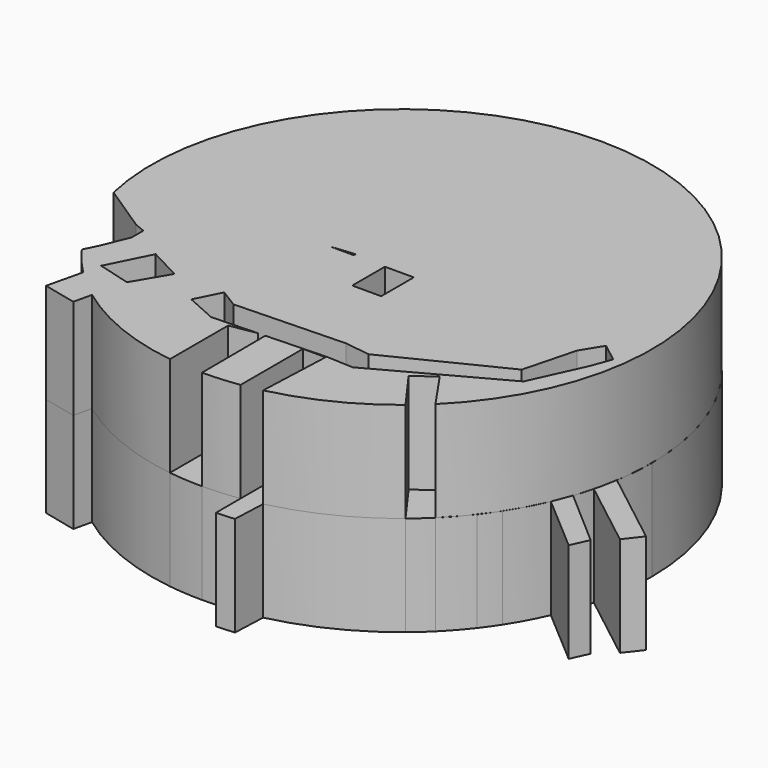
from build123d import *

# Parameters (mm, degrees)
F1_DEPTH  = 25.4
F0_W      = 7.3390468024
F0_H      = 10.3610064834
F2_DEPTH  = 25.4
F2_FACE_W = 7.3390468024
F2_FACE_H = 10.3610064834
F3_DEPTH  = 25.4


with BuildPart() as f1:
    # F0 (on Top) → F1 (new body)
    with BuildSketch(Plane.XY):
        with BuildLine():
            Line((-49.7708707051, -22.0490339231), (-61.9298927866, -14.0334735346))
            ThreePointArc((-61.9298927866, -14.0334735346), (-59.5758630727, -21.9764997017), (-56.2077897371, -29.5454628137))
            ThreePointArc((-56.2077897371, -29.5454628137), (-54.0065287389, -33.3997732563), (-51.5413960541, -37.0908950121))
            Line((-51.5413960541, -37.0908950121), (-49.9342978001, -33.8171757758))
            Line((-49.9342978001, -33.8171757758), (-47.0562428236, -26.9098374993))
            Line((-47.0562428236, -26.9098374993), (-52.2367469966, -23.1683626771))
            Line((-52.2367469966, -23.1683626771), (-51.2758737448, -21.4284725605))
            Line((-51.2758737448, -21.4284725605), (-49.7708707051, -22.0490339231))
        make_face()
    extrude(amount=F1_DEPTH)


with BuildPart() as f1b:
    # F0 (on Top) → F1, piece 2 (new body)
    with BuildSketch(Plane.XY):
        with Locations((3.6695234012, -10.5049097911)):
            Rectangle(F0_W, F0_H)
    extrude(amount=F1_DEPTH)


with BuildPart() as f1c:
    # F0 (on Top) → F1, piece 3 (new body)
    with BuildSketch(Plane.XY):
        Polygon((-31.0068018321, -34.4188220673), (-36.9332990208, -30.5119127952), (-38.8563714, -29.5000895858), (-44.1781841218, -40.1489026845), (-35.7720319718, -42.4837099351), align=None)
    extrude(amount=F1_DEPTH)


with BuildPart() as f1d:
    # F0 (on Top) → F1, piece 4 (new body)
    with BuildSketch(Plane.XY):
        Polygon((14.5341921598, -35.8318164945), (-13.3829666302, -36.6952344775), (-13.3829666302, -43.7464751303), (-1.8367504253, -43.3382747308), (0, -43.0269613862), (0.0013102635, -43.273292654), (15.1098035276, -42.7391529083), align=None)
        Polygon((-13.3829666302, -36.6952344775), (-17.9878603667, -33.8171757758), (-21.2062429383, -40.2539409189), (-13.3829666302, -43.7464751303), align=None)
        Polygon((48.7830750644, -22.8805579245), (20.9440190319, -36.6952344775), (22.0171920954, -43.0269613862), (43.0135097494, -31.6289399265), (42.0995865443, -30.3635075688), (45.3445651738, -30.3635075688), (52.2367432714, -26.6220327467), align=None)
        Polygon((20.9440190319, -36.6952344775), (14.5341921598, -35.8318164945), (15.1098035276, -42.7391529083), (22.0171920954, -43.0269613862), align=None)
        Polygon((52.2367432714, -9.6414927393), (58.2806691527, -13.3829684928), (60.2128914278, -8.1383658129), (55.4570831755, -4.4394021804), align=None)
        Polygon((56.4015443779, -17.4991429998), (58.2806691527, -13.3829684928), (52.2367432714, -9.6414927393), (48.7830750644, -22.8805579245), (52.2367432714, -26.6220327467), align=None)
    extrude(amount=F1_DEPTH)


with BuildPart() as f1e:
    # F0 (on Top) → F1, piece 5 (new body)
    with BuildSketch(Plane.XY):
        with BuildLine():
            Line((0.0013102635, -43.273292654), (-1.8367504253, -43.3382747308))
            Line((-1.8367504253, -43.3382747308), (-8.4902700037, -44.4659888744))
            Line((-8.4902700037, -44.4659888744), (-8.4902700037, -62.9298443925))
            ThreePointArc((-8.4902700037, -62.9298443925), (-4.2003681286, -63.360925716), (0.1088978775, -63.499906624))
            Line((0.1088978775, -63.499906624), (0.0013102635, -43.273292654))
        make_face()
    extrude(amount=F1_DEPTH)


with BuildPart() as f1f:
    # F0 (on Top) → F1, piece 6 (new body)
    with BuildSketch(Plane.XY):
        with BuildLine():
            Line((14.3128531195, -61.8659214397), (15.0978114818, -43.0269613862))
            Line((15.0978114818, -43.0269613862), (9.3536870554, -43.0269613862))
            Line((9.3536870554, -43.0269613862), (9.3536870554, -62.8073127786))
            ThreePointArc((9.3536870554, -62.8073127786), (11.8426278915, -62.3859131906), (14.3128531195, -61.8659214397))
        make_face()
        with BuildLine():
            Line((13.958577998, -70.3685060143), (14.3128531195, -61.8659214397))
            ThreePointArc((14.3128531195, -61.8659214397), (11.8426278915, -62.3859131906), (9.3536870554, -62.8073127786))
            Line((9.3536870554, -62.8073127786), (9.3536870554, -70.6563144922))
            Line((9.3536870554, -70.6563144922), (13.958577998, -70.3685060143))
        make_face()
    extrude(amount=F1_DEPTH)


with BuildPart() as f1g:
    # F0 (on Top) → F1, piece 7 (new body)
    with BuildSketch(Plane.XY):
        with BuildLine():
            ThreePointArc((40.2562877221, -49.1088718953), (42.5102272204, -47.1712898029), (44.6710288363, -45.130357662))
            Line((44.6710288363, -45.130357662), (37.9661338907, -35.377633886))
            Line((37.9661338907, -35.377633886), (32.953761518, -38.9976799488))
            Line((32.953761518, -38.9976799488), (40.2562877221, -49.1088718953))
        make_face()
    extrude(amount=F1_DEPTH)


with BuildPart() as f1h:
    # F0 (on Top) → F1, piece 8 (new body)
    with BuildSketch(Plane.XY):
        with BuildLine():
            Line((74.6989872856, -33.4040969341), (60.0434377636, -20.6648392573))
            ThreePointArc((60.0434377636, -20.6648392573), (59.1673811143, -23.0536550697), (58.196329197, -25.405457445))
            Line((58.196329197, -25.405457445), (72.6709514856, -37.8464572132))
            Line((72.6709514856, -37.8464572132), (74.6989872856, -33.4040969341))
        make_face()
    extrude(amount=F1_DEPTH)


with BuildPart() as f1i:
    # F0 (on Top) → F1, piece 9 (new body)
    with BuildSketch(Plane.XY):
        with BuildLine():
            Line((82.2725929596, -25.295914445), (62.6964485641, -10.0700217202))
            ThreePointArc((62.6964485641, -10.0700217202), (62.1579082594, -12.9863174461), (61.4837943245, -15.8742885027))
            Line((61.4837943245, -15.8742885027), (79.0026783943, -29.5000895858))
            Line((79.0026783943, -29.5000895858), (82.2725929596, -25.295914445))
        make_face()
    extrude(amount=F1_DEPTH)


with BuildPart() as f2:
    # F0 (on Top) → F2 (new body)
    with BuildSketch(Plane.XY):
        with BuildLine():
            ThreePointArc((62.6964485641, -10.0700217202), (63.2987933685, -5.0510155502), (63.5, 0))
            ThreePointArc((63.5, 0), (-4.5314373986, 63.3381091848), (-62.853262208, -9.0397693453))
            Line((-62.853262208, -9.0397693453), (-17.9878603667, -33.8171757758))
            Line((-17.9878603667, -33.8171757758), (-13.3829666302, -36.6952344775))
            Line((-13.3829666302, -36.6952344775), (14.5341921598, -35.8318164945))
            Line((14.5341921598, -35.8318164945), (20.9440190319, -36.6952344775))
            Line((20.9440190319, -36.6952344775), (48.7830750644, -22.8805579245))
            Line((48.7830750644, -22.8805579245), (52.2367432714, -9.6414927393))
            Line((52.2367432714, -9.6414927393), (55.4570831755, -4.4394021804))
            Line((55.4570831755, -4.4394021804), (60.2128914278, -8.1383658129))
            Line((60.2128914278, -8.1383658129), (60.3152320873, -8.2179641394))
            Line((60.3152320873, -8.2179641394), (62.6964485641, -10.0700217202))
        make_face()
        Polygon((-7.9146586359, -4.7487951815), (-7.9146586359, -5.3244065493), (-13.6707741767, -5.3244065493), align=None, mode=Mode.SUBTRACT)
        with Locations((3.6695234012, -10.5049097911)):
            Rectangle(F0_W, F0_H, mode=Mode.SUBTRACT)
        with BuildLine():
            Line((-17.9878603667, -33.8171757758), (-62.853262208, -9.0397693453))
            ThreePointArc((-62.853262208, -9.0397693453), (-62.441518343, -11.5458558375), (-61.9298927866, -14.0334735346))
            Line((-61.9298927866, -14.0334735346), (-49.7708707051, -22.0490339231))
            Line((-49.7708707051, -22.0490339231), (-47.0562428236, -23.1683626771))
            Line((-47.0562428236, -23.1683626771), (-47.0562428236, -23.8385909756))
            Line((-47.0562428236, -23.8385909756), (-36.9332990208, -30.5119127952))
            Line((-36.9332990208, -30.5119127952), (-30.6513123214, -33.8171757758))
            Line((-30.6513123214, -33.8171757758), (-31.0068018321, -34.4188220673))
            Line((-31.0068018321, -34.4188220673), (-21.4415285736, -40.7245121896))
            Line((-21.4415285736, -40.7245121896), (-21.2062429383, -40.2539409189))
            Line((-21.2062429383, -40.2539409189), (-17.9878603667, -33.8171757758))
        make_face()
        with BuildLine():
            ThreePointArc((-37.7750572229, -51.0420909819), (-41.6210778743, -47.9576466956), (-45.2162142199, -44.5841224162))
            Line((-45.2162142199, -44.5841224162), (-47.3440475762, -53.6757744849))
            Line((-47.3440475762, -53.6757744849), (-38.8563714, -55.6622517883))
            Line((-38.8563714, -55.6622517883), (-37.7750572229, -51.0420909819))
        make_face()
        with BuildLine():
            Line((-44.1781841218, -40.1489026845), (-45.2162142199, -44.5841224162))
            ThreePointArc((-45.2162142199, -44.5841224162), (-41.6210778743, -47.9576466956), (-37.7750572229, -51.0420909819))
            Line((-37.7750572229, -51.0420909819), (-35.7720319718, -42.4837099351))
            Line((-35.7720319718, -42.4837099351), (-44.1781841218, -40.1489026845))
        make_face()
        with BuildLine():
            ThreePointArc((50.2299959784, -38.8483912667), (51.7917900501, -36.7404475124), (53.2651809713, -34.5697916699))
            Line((53.2651809713, -34.5697916699), (48.7830750644, -30.3635075688))
            Line((48.7830750644, -30.3635075688), (44.1781841218, -33.2415662706))
            Line((44.1781841218, -33.2415662706), (50.2299959784, -38.8483912667))
        make_face()
        with BuildLine():
            ThreePointArc((58.196329197, -25.405457445), (59.1673811143, -23.0536550697), (60.0434377636, -20.6648392573))
            Line((60.0434377636, -20.6648392573), (56.4015443779, -17.4991429998))
            Line((56.4015443779, -17.4991429998), (52.2367432714, -26.6220327467))
            Line((52.2367432714, -26.6220327467), (45.3445651738, -30.3635075688))
            Line((45.3445651738, -30.3635075688), (48.7830750644, -30.3635075688))
            Line((48.7830750644, -30.3635075688), (53.2651809713, -34.5697916699))
            ThreePointArc((53.2651809713, -34.5697916699), (55.9188100526, -30.0888132418), (58.196329197, -25.405457445))
        make_face()
        with BuildLine():
            ThreePointArc((61.4837943245, -15.8742885027), (62.1579082594, -12.9863174461), (62.6964485641, -10.0700217202))
            Line((62.6964485641, -10.0700217202), (60.3152320873, -8.2179641394))
            Line((60.3152320873, -8.2179641394), (60.2128914278, -8.1383658129))
            Line((60.2128914278, -8.1383658129), (58.2806691527, -13.3829684928))
            Line((58.2806691527, -13.3829684928), (61.4837943245, -15.8742885027))
        make_face()
        with BuildLine():
            ThreePointArc((61.4837943245, -15.8742885027), (62.1579082594, -12.9863174461), (62.6964485641, -10.0700217202))
            Line((62.6964485641, -10.0700217202), (60.3152320873, -8.2179641394))
            Line((60.3152320873, -8.2179641394), (60.2128914278, -8.1383658129))
            Line((60.2128914278, -8.1383658129), (58.2806691527, -13.3829684928))
            Line((58.2806691527, -13.3829684928), (61.4837943245, -15.8742885027))
        make_face()
        with BuildLine():
            ThreePointArc((60.0434377636, -20.6648392573), (60.8108080762, -18.2837529277), (61.4837943245, -15.8742885027))
            Line((61.4837943245, -15.8742885027), (58.2806691527, -13.3829684928))
            Line((58.2806691527, -13.3829684928), (56.4015443779, -17.4991429998))
            Line((56.4015443779, -17.4991429998), (60.0434377636, -20.6648392573))
        make_face()
        Polygon((44.1781841218, -33.2415662706), (48.7830750644, -30.3635075688), (45.3445651738, -30.3635075688), (43.0135097494, -31.6289399265), align=None)
        with BuildLine():
            Line((-49.9342978001, -33.8171757758), (-51.5413960541, -37.0908950121))
            ThreePointArc((-51.5413960541, -37.0908950121), (-48.5236633068, -40.9597863677), (-45.2162142199, -44.5841224162))
            Line((-45.2162142199, -44.5841224162), (-44.1781841218, -40.1489026845))
            Line((-44.1781841218, -40.1489026845), (-38.8563714, -29.5000895858))
            Line((-38.8563714, -29.5000895858), (-36.9332990208, -30.5119127952))
            Line((-36.9332990208, -30.5119127952), (-47.0562428236, -23.8385909756))
            Line((-47.0562428236, -23.8385909756), (-47.0562428236, -26.9098374993))
            Line((-47.0562428236, -26.9098374993), (-49.9342978001, -33.8171757758))
        make_face()
        with BuildLine():
            Line((-13.3829666302, -43.7464751303), (-21.2062429383, -40.2539409189))
            Line((-21.2062429383, -40.2539409189), (-21.4415285736, -40.7245121896))
            Line((-21.4415285736, -40.7245121896), (-31.0068018321, -34.4188220673))
            Line((-31.0068018321, -34.4188220673), (-35.7720319718, -42.4837099351))
            Line((-35.7720319718, -42.4837099351), (-37.7750572229, -51.0420909819))
            ThreePointArc((-37.7750572229, -51.0420909819), (-23.8840908584, -58.8370648815), (-8.4902700037, -62.9298443925))
            Line((-8.4902700037, -62.9298443925), (-8.4902700037, -44.4659888744))
            Line((-8.4902700037, -44.4659888744), (-1.8367504253, -43.3382747308))
            Line((-1.8367504253, -43.3382747308), (-13.3829666302, -43.7464751303))
        make_face()
        with BuildLine():
            Line((15.0978114818, -43.0269613862), (15.1098035276, -42.7391529083))
            Line((15.1098035276, -42.7391529083), (0.0013102635, -43.273292654))
            Line((0.0013102635, -43.273292654), (0.1088978775, -63.499906624))
            ThreePointArc((0.1088978775, -63.499906624), (4.7439487731, -63.3225469327), (9.3536870554, -62.8073127786))
            Line((9.3536870554, -62.8073127786), (9.3536870554, -43.0269613862))
            Line((9.3536870554, -43.0269613862), (15.0978114818, -43.0269613862))
        make_face()
        with BuildLine():
            Line((22.0171920954, -43.0269613862), (15.1098035276, -42.7391529083))
            Line((15.1098035276, -42.7391529083), (15.0978114818, -43.0269613862))
            Line((15.0978114818, -43.0269613862), (14.3128531195, -61.8659214397))
            ThreePointArc((14.3128531195, -61.8659214397), (28.020231286, -56.9834768918), (40.2562877221, -49.1088718953))
            Line((40.2562877221, -49.1088718953), (32.953761518, -38.9976799488))
            Line((32.953761518, -38.9976799488), (37.9661338907, -35.377633886))
            Line((37.9661338907, -35.377633886), (44.6710288363, -45.130357662))
            ThreePointArc((44.6710288363, -45.130357662), (47.5543573521, -42.0812677664), (50.2299959784, -38.8483912667))
            Line((50.2299959784, -38.8483912667), (44.1781841218, -33.2415662706))
            Line((44.1781841218, -33.2415662706), (43.0135097494, -31.6289399265))
            Line((43.0135097494, -31.6289399265), (22.0171920954, -43.0269613862))
        make_face()
    extrude(amount=F2_DEPTH)


with BuildPart() as f3:
    # F0 (on Top) + F2_face (on face) → F3 (new body)
    with BuildSketch(Plane.XY):
        Polygon((-47.0562428236, -26.9098374993), (-51.2758737448, -21.4284725605), (-52.2367469966, -23.1683626771), align=None)
    with BuildSketch(Plane(origin=(-0.6499748521, 3.6278540667, 25.4), x_dir=(1, 0, 0), z_dir=(0, 0, 1))):
        with BuildLine():
            Line((-61.2799179345, -17.6613276012), (-49.1208958531, -25.6768879898))
            Line((-49.1208958531, -25.6768879898), (-46.4062679715, -26.7962167438))
            Line((-46.4062679715, -26.7962167438), (-46.4062679715, -30.5376915659))
            Line((-46.4062679715, -30.5376915659), (-49.284322948, -37.4450298424))
            Line((-49.284322948, -37.4450298424), (-50.891421202, -40.7187490787))
            ThreePointArc((-50.891421202, -40.7187490787), (-47.8736884547, -44.5876404343), (-44.5662393678, -48.2119764829))
            Line((-44.5662393678, -48.2119764829), (-46.6940727241, -57.3036285515))
            Line((-46.6940727241, -57.3036285515), (-38.206396548, -59.290105855))
            Line((-38.206396548, -59.290105855), (-37.1250823708, -54.6699450486))
            ThreePointArc((-37.1250823708, -54.6699450486), (-23.2341160063, -62.4649189481), (-7.8402951516, -66.5576984592))
            Line((-7.8402951516, -66.5576984592), (-7.8402951516, -48.0938429411))
            Line((-7.8402951516, -48.0938429411), (-1.1867755732, -46.9661287974))
            Line((-1.1867755732, -46.9661287974), (-12.7329917781, -47.374329197))
            Line((-12.7329917781, -47.374329197), (-20.5562680862, -43.8817949856))
            Line((-20.5562680862, -43.8817949856), (-17.3378855146, -37.4450298424))
            Line((-17.3378855146, -37.4450298424), (-12.7329917781, -40.3230885442))
            Line((-12.7329917781, -40.3230885442), (15.1841670118, -39.4596705611))
            Line((15.1841670118, -39.4596705611), (21.593993884, -40.3230885442))
            Line((21.593993884, -40.3230885442), (49.4330499165, -26.5084119912))
            Line((49.4330499165, -26.5084119912), (52.8867181234, -13.269346806))
            Line((52.8867181234, -13.269346806), (56.1070580276, -8.0672562471))
            Line((56.1070580276, -8.0672562471), (60.8628662798, -11.7662198796))
            Line((60.8628662798, -11.7662198796), (58.9306440048, -17.0108225595))
            Line((58.9306440048, -17.0108225595), (52.8867181234, -30.2498868133))
            Line((52.8867181234, -30.2498868133), (22.6671669475, -46.6548154529))
            Line((22.6671669475, -46.6548154529), (15.7597783797, -46.367006975))
            Line((15.7597783797, -46.367006975), (0.6512851155, -46.9011467207))
            Line((0.6512851155, -46.9011467207), (0.7588727296, -67.1277606906))
            ThreePointArc((0.7588727296, -67.1277606906), (5.3939236252, -66.9504009993), (10.0036619075, -66.4351668453))
            Line((10.0036619075, -66.4351668453), (10.0036619075, -46.6548154529))
            Line((10.0036619075, -46.6548154529), (15.7477863339, -46.6548154529))
            Line((15.7477863339, -46.6548154529), (14.9628279716, -65.4937755063))
            ThreePointArc((14.9628279716, -65.4937755063), (28.670206138, -60.6113309585), (40.9062625742, -52.736725962))
            Line((40.9062625742, -52.736725962), (33.6037363701, -42.6255340155))
            Line((33.6037363701, -42.6255340155), (38.6161087428, -39.0054879527))
            Line((38.6161087428, -39.0054879527), (45.3210036884, -48.7582117287))
            ThreePointArc((45.3210036884, -48.7582117287), (18.4325828392, 57.3313852099), (-61.2799179345, -17.6613276012))
        make_face()
        Polygon((-35.1220571197, -46.1115640018), (-43.5282092698, -43.7767567511), (-38.206396548, -33.1279436524), (-30.0013374694, -37.4450298424), align=None, mode=Mode.SUBTRACT)
        with Locations((4.3194982533, -14.1327638577)):
            Rectangle(F2_FACE_W, F2_FACE_H, mode=Mode.SUBTRACT)
        Polygon((-7.2646837838, -8.3766492482), (-7.2646837838, -8.952260616), (-13.0207993246, -8.952260616), align=None, mode=Mode.SUBTRACT)
    extrude(amount=F3_DEPTH)


solid = Compound([f1.part, f1b.part, f1c.part, f1d.part, f1e.part, f1f.part, f1g.part, f1h.part, f1i.part, f2.part, f3.part])
